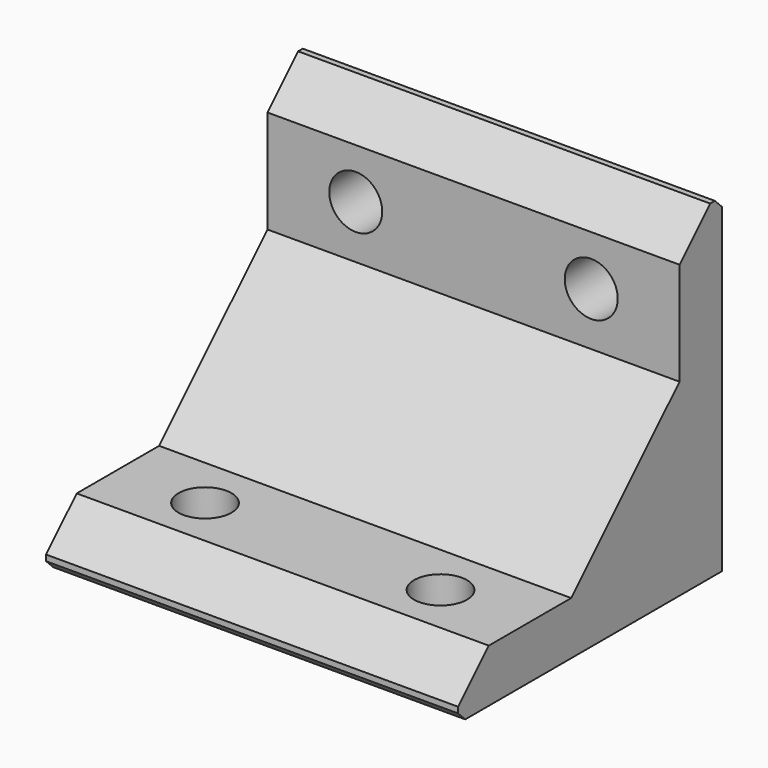
from build123d import *

# Parameters (mm, degrees)
F1_DEPTH = 35
F2_R     = 4.5
F3_DEPTH = 30.87481
F4_R     = 4.5
F5_DEPTH = 35.101


with BuildPart() as f1:
    # F0 (on Right) → F1 (new body, symmetric)
    with BuildSketch(Plane.YZ):
        Polygon((-1.12619, -26.1), (-18.62619, -26.1), (-25.12619, -32.6), (-25.12619, -33.6), (-23.62619, -35.1), (30.87381, -35.1), (30.87381, 19.4), (29.37381, 20.9), (28.37381, 20.9), (21.87381, 14.4), (21.87381, -3.1), align=None)
    extrude(amount=F1_DEPTH, both=True)

    # F2 (on Front) → F3 (cut, through all)
    with BuildSketch(Plane.XZ):
        with Locations((-19.999945, 5.9)):
            Circle(F2_R)
        with Locations((20.000055, 5.9)):
            Circle(F2_R)
    extrude(amount=-F3_DEPTH, mode=Mode.SUBTRACT)

    # F4 (on Top) → F5 (cut, through all)
    with BuildSketch(Plane.XY):
        with Locations((-19.999975, -10.126112)):
            Circle(F4_R)
        with Locations((20.000025, -10.126112)):
            Circle(F4_R)
    extrude(amount=-F5_DEPTH, mode=Mode.SUBTRACT)


solid = f1.part
